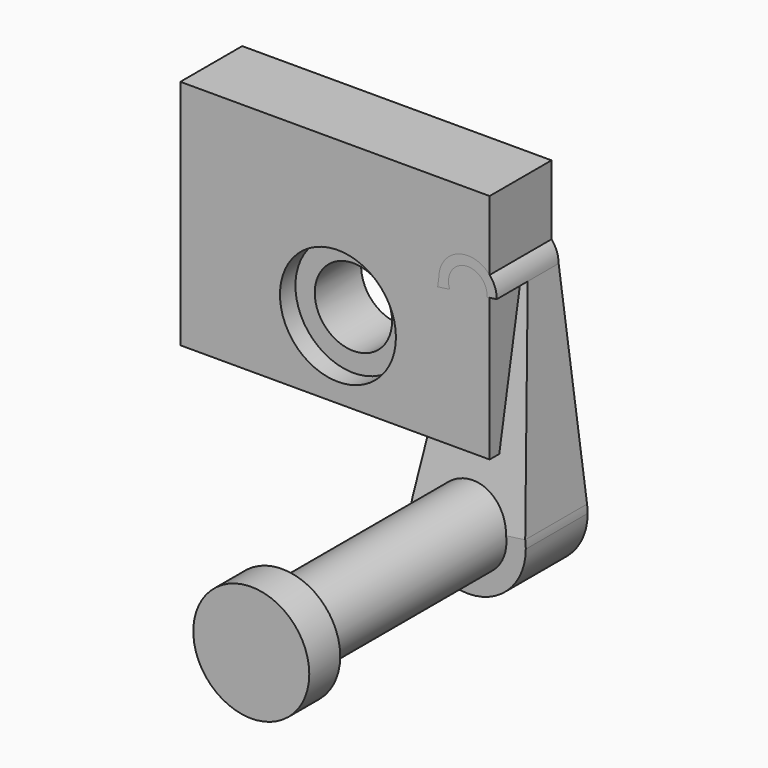
from build123d import *

# Parameters (mm, degrees)
F0_R      = 12.7
F1_DEPTH  = 101.6
F2_W      = 101.6
F2_H      = 76.2
F2_R      = 12.7
F3_DEPTH  = 25.4
F4_R      = 19.05
F5_DEPTH  = 12.7
F6_R      = 19.05
F7_DEPTH  = 6.35
F8_R      = 12.7
F9_DEPTH  = 25.4
F11_DEPTH = 115.2023226911


with BuildPart() as f1:
    # F0 (on Front) → F1 (new body)
    with BuildSketch(Plane.XZ):
        Circle(F0_R)
    extrude(amount=F1_DEPTH)

    # F4 (on face) → F5 (join)
    with BuildSketch(Plane.XZ.offset(101.6)):
        Circle(F4_R)
    extrude(amount=F5_DEPTH)


with BuildPart() as f3:
    # F2 (on Front) → F3 (new body)
    with BuildSketch(Plane.XZ):
        with Locations((-43.6197396773, 60.1487620682)):
            Rectangle(F2_W, F2_H)
        with Locations((-42.6556950318, 47.3632244934)):
            Circle(F2_R, mode=Mode.SUBTRACT)
    extrude(amount=F3_DEPTH)

    # F6 (on face) → F7 (cut)
    with BuildSketch(Plane.XZ.offset(25.4)):
        with Locations((-42.6556950318, 47.3632244934)):
            Circle(F6_R)
    extrude(amount=-F7_DEPTH, mode=Mode.SUBTRACT)


with BuildPart() as f9:
    # F8 (on Front) → F9 (new body)
    with BuildSketch(Plane.XZ):
        with BuildLine():
            ThreePointArc((-18.8649665496, 2.6486859164), (-1.3275705689, -19.0036853369), (19.05, 0))
            ThreePointArc((19.05, 0), (19.0036853383, 1.3275705492), (18.8649665551, 2.6486858773))
            ThreePointArc((18.8649665551, 2.6486858773), (1.98e-08, 19.05), (-18.8649665496, 2.6486859164))
        make_face()
        Circle(F8_R, mode=Mode.SUBTRACT)
        with BuildLine():
            ThreePointArc((-18.8649665496, 2.6486859164), (1.98e-08, 19.05), (18.8649665551, 2.6486858773))
            Line((18.8649665551, 2.6486858773), (9.525, 69.1715440215))
            ThreePointArc((9.525, 69.1715440215), (0, 59.6465440215), (-9.525, 69.1715440215))
            Line((-9.525, 69.1715440215), (-18.8649665496, 2.6486859164))
        make_face()
        with BuildLine():
            Line((6.35, 69.1715440215), (9.525, 69.1715440215))
            ThreePointArc((9.525, 69.1715440215), (0, 78.6965440215), (-9.525, 69.1715440215))
            Line((-9.525, 69.1715440215), (-6.35, 69.1715440215))
            ThreePointArc((-6.35, 69.1715440215), (0, 75.5215440215), (6.35, 69.1715440215))
        make_face()
        with BuildLine():
            ThreePointArc((-9.525, 69.1715440215), (0, 59.6465440215), (9.525, 69.1715440215))
            Line((9.525, 69.1715440215), (6.35, 69.1715440215))
            ThreePointArc((6.35, 69.1715440215), (0, 62.8215440215), (-6.35, 69.1715440215))
            Line((-6.35, 69.1715440215), (-9.525, 69.1715440215))
        make_face()
    extrude(amount=F9_DEPTH)

    # F10 (on face) → F11 (cut, through all)
    with BuildSketch(Plane(origin=(18.8649665513, 0, 2.6486859039), x_dir=(0, 1, 0), z_dir=(0.9902869581, 0, 0.1390386301))):
        Polygon((-25.4, 0), (-12.7, 67.1753349625), (-25.4, 67.1753349625), align=None)
    extrude(amount=-F11_DEPTH, mode=Mode.SUBTRACT)


solid = Compound([f1.part, f3.part, f9.part])
